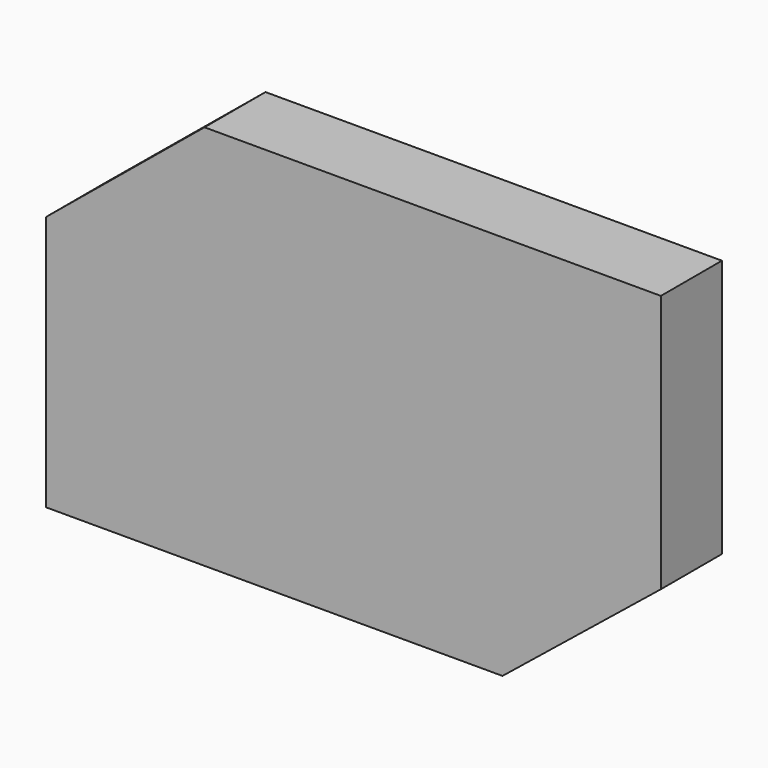
from build123d import *

# Parameters (mm, degrees)
F1_DEPTH = 25.4


with BuildPart() as f1:
    # F0 (on Front) → F1 (new body)
    with BuildSketch(Plane.XZ):
        Polygon((-75.995557, -42.566791), (75.995557, -42.566791), (75.995557, 0), (-18.541871, 0), (-22.720322, 0), align=None)
        Polygon((75.995557, 0), (75.995557, -42.566791), (128.748477, 0), align=None)
        Polygon((-75.995557, 42.566791), (-75.995557, -42.566791), (-22.720322, 0), (-22.978842, 42.566791), align=None)
        Polygon((75.995557, 42.566791), (75.995557, 0), (128.748477, 0), (128.748477, 86.002111), align=None)
        Polygon((-23.242638, 86.002111), (-75.995557, 42.566791), (-22.978842, 42.566791), align=None)
        Polygon((-22.978842, 42.566791), (75.995557, 42.566791), (128.748477, 86.002111), (0, 86.002111), (-23.242638, 86.002111), align=None)
        Polygon((-18.541871, 0), (75.995557, 0), (75.995557, 42.566791), (-22.978842, 42.566791), (-22.720322, 0), align=None)
    extrude(amount=F1_DEPTH)


solid = f1.part
